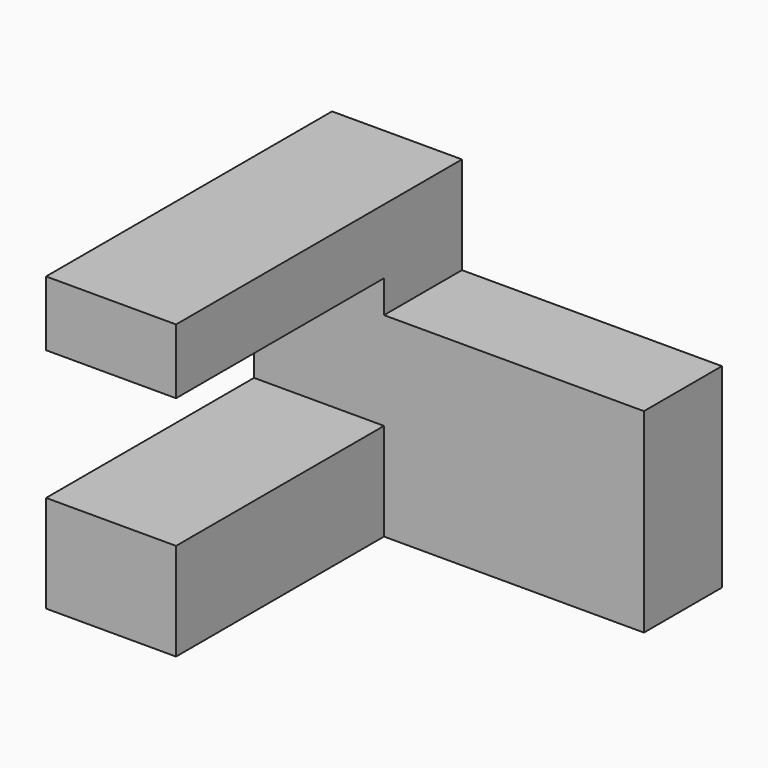
from build123d import *

# Parameters (mm, degrees)
F0_W     = 20
F0_H     = 15
F0_H_2   = 10
F1_DEPTH = 15
F2_DEPTH = 40


with BuildPart() as f1:
    # F0 (on Front) → F1 (new body)
    with BuildSketch(Plane.XZ):
        with Locations((10, 7.5)):
            Rectangle(F0_W, F0_H)
        Polygon((20, 15), (20, 0), (60, 0), (60, 30), (20, 30), (20, 35), (0, 35), (0, 15), align=None)
        with Locations((10, 40)):
            Rectangle(F0_W, F0_H_2)
    extrude(amount=-F1_DEPTH)

    # F0 (on Front) → F2 (join)
    with BuildSketch(Plane.XZ):
        with Locations((10, 40)):
            Rectangle(F0_W, F0_H_2)
        with Locations((10, 7.5)):
            Rectangle(F0_W, F0_H)
    extrude(amount=F2_DEPTH)


solid = f1.part
